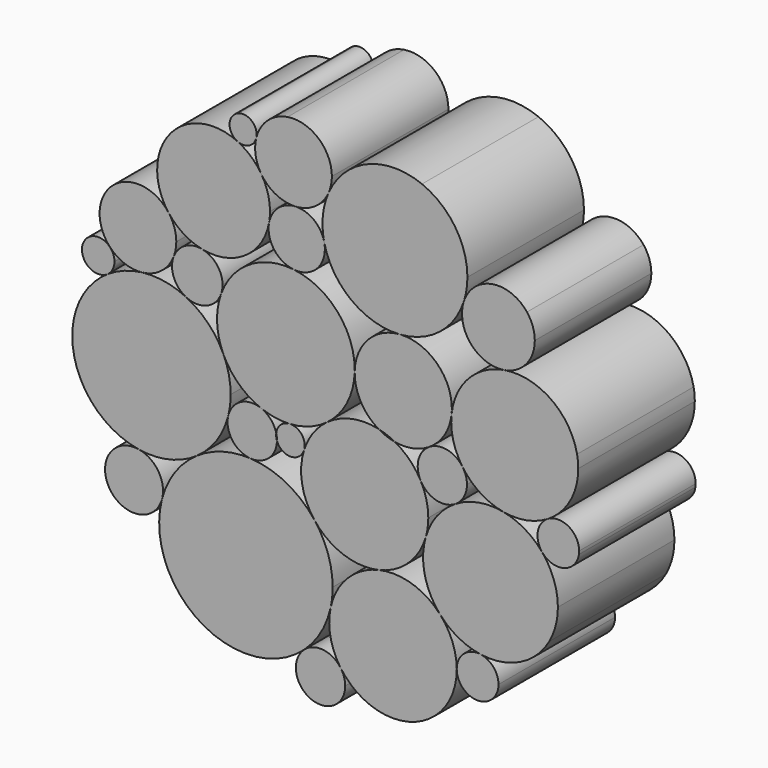
from build123d import *

# Parameters (mm, degrees)
F1_DEPTH = 25.4


with BuildPart() as f1:
    # F0 (on Front) → F1 (new body)
    with BuildSketch(Plane.XZ):
        with BuildLine():
            ThreePointArc((-15.6078290945, 37.3352174789), (-20.6051750596, 38.2182392899), (-25.3778206651, 36.4934065044))
            ThreePointArc((-25.3778206651, 36.4934065044), (-29.4767090603, 29.9644153461), (-27.6106538, 22.4846794291))
            ThreePointArc((-27.6106538, 22.4846794291), (-25.0052898724, 20.0914335063), (-21.7218328244, 18.7744456336))
            ThreePointArc((-21.7218328244, 18.7744456336), (-14.2601058431, 20.2581570952), (-10.0871613659, 26.6193915379))
            ThreePointArc((-10.0871613659, 26.6193915379), (-9.9632114803, 27.5137831674), (-9.9217785306, 28.4157716772))
            ThreePointArc((-9.9217785306, 28.4157716772), (-10.3158122315, 31.1722848745), (-11.4663520144, 33.7080068175))
            ThreePointArc((-11.4663520144, 33.7080068175), (-13.2782198976, 35.8171855219), (-15.6078290945, 37.3352174789))
        make_face()
    extrude(amount=F1_DEPTH)


with BuildPart() as f1b:
    # F0 (on Front) → F1, piece 2 (new body)
    with BuildSketch(Plane.XZ):
        with BuildLine():
            ThreePointArc((-12.2535706735, 39.4735210295), (-13.2646677338, 41.4093505446), (-15.4311115594, 41.6855286165))
            ThreePointArc((-15.4311115594, 41.6855286165), (-16.9690308561, 39.5692568276), (-15.6078290945, 37.3352174789))
            ThreePointArc((-15.6078290945, 37.3352174789), (-13.5934343406, 37.3462120742), (-12.322163476, 38.908830868))
            ThreePointArc((-12.322163476, 38.908830868), (-12.2707816668, 39.1891005876), (-12.2535706735, 39.4735210295))
        make_face()
    extrude(amount=F1_DEPTH)


with BuildPart() as f1c:
    # F0 (on Front) → F1, piece 3 (new body)
    with BuildSketch(Plane.XZ):
        with BuildLine():
            ThreePointArc((0.8649904966, 37.3069898746), (-1.4749867563, 42.3900449186), (-6.858211202, 43.9177349041))
            ThreePointArc((-6.858211202, 43.9177349041), (-10.3471940554, 42.2390620465), (-12.322163476, 38.908830868))
            ThreePointArc((-12.322163476, 38.908830868), (-12.427951259, 36.2205979471), (-11.4663520144, 33.7080068175))
            ThreePointArc((-11.4663520144, 33.7080068175), (-8.8987810267, 31.3635133718), (-5.5014016617, 30.6239974869))
            ThreePointArc((-5.5014016617, 30.6239974869), (-2.0351878592, 31.7935184516), (0.2978745743, 34.6111836364))
            ThreePointArc((0.2978745743, 34.6111836364), (0.7216766731, 35.9295836397), (0.8649904966, 37.3069898746))
        make_face()
    extrude(amount=F1_DEPTH)


with BuildPart() as f1d:
    # F0 (on Front) → F1, piece 4 (new body)
    with BuildSketch(Plane.XZ):
        with BuildLine():
            ThreePointArc((-0.4736150363, 26.7854721462), (-2.286297065, 29.6231970911), (-5.5014016617, 30.6239974869))
            ThreePointArc((-5.5014016617, 30.6239974869), (-8.4905795404, 29.4190402371), (-10.0871613659, 26.6193915379))
            ThreePointArc((-10.0871613659, 26.6193915379), (-9.2059944963, 22.8035333959), (-5.8127192722, 20.8483066403))
            ThreePointArc((-5.8127192722, 20.8483066403), (-1.9942532422, 22.0654090981), (-0.3573266278, 25.7236180143))
            ThreePointArc((-0.3573266278, 25.7236180143), (-0.3864853795, 26.2577194071), (-0.4736150363, 26.7854721462))
        make_face()
    extrude(amount=F1_DEPTH)


with BuildPart() as f1e:
    # F0 (on Front) → F1, piece 5 (new body)
    with BuildSketch(Plane.XZ):
        with BuildLine():
            ThreePointArc((24.4979513023, 29.5202209054), (22.3311025436, 36.5957656626), (16.5737357555, 41.2445606487))
            ThreePointArc((16.5737357555, 41.2445606487), (7.0935511907, 41.2212684492), (0.2978745743, 34.6111836364))
            ThreePointArc((0.2978745743, 34.6111836364), (-0.7121525846, 30.7598721164), (-0.4736150363, 26.7854721462))
            ThreePointArc((-0.4736150363, 26.7854721462), (4.2965647831, 19.4002182528), (12.7296984771, 16.9144896518))
            ThreePointArc((12.7296984771, 16.9144896518), (19.6261602551, 19.5512199164), (23.8717527716, 25.5917890723))
            ThreePointArc((23.8717527716, 25.5917890723), (24.3404196683, 27.5312072512), (24.4979513023, 29.5202209054))
        make_face()
    extrude(amount=F1_DEPTH)


with BuildPart() as f1f:
    # F0 (on Front) → F1, piece 6 (new body)
    with BuildSketch(Plane.XZ):
        with BuildLine():
            ThreePointArc((-0.0110876092, -0.7239575651), (3.5028976174, 3.4022382272), (4.8436805068, 8.6535128471))
            ThreePointArc((4.8436805068, 8.6535128471), (4.8459101884, 8.7870712457), (4.8466534463, 8.9206461869))
            ThreePointArc((4.8466534463, 8.9206461869), (1.7935065955, 16.9189477354), (-5.8127192722, 20.8483066403))
            ThreePointArc((-5.8127192722, 20.8483066403), (-13.5030273585, 19.108668519), (-18.4548382756, 12.9729739458))
            ThreePointArc((-18.4548382756, 12.9729739458), (-19.1478164527, 8.3895325083), (-18.052332905, 3.8853044988))
            ThreePointArc((-18.052332905, 3.8853044988), (-15.3610644036, 0.1594144685), (-11.4667828145, -2.2818461832))
            ThreePointArc((-11.4667828145, -2.2818461832), (-9.0240490533, -2.9362855976), (-6.4984160761, -3.0644153744))
            ThreePointArc((-6.4984160761, -3.0644153744), (-3.0830385406, -2.370144886), (-0.0110876092, -0.7239575651))
        make_face()
    extrude(amount=F1_DEPTH)


with BuildPart() as f1g:
    # F0 (on Front) → F1, piece 7 (new body)
    with BuildSketch(Plane.XZ):
        with BuildLine():
            ThreePointArc((-28.7412354041, -21.8214358914), (-28.0264607879, -31.6531526586), (-21.4055989822, -38.9564222204))
            ThreePointArc((-21.4055989822, -38.9564222204), (-12.3761115709, -40.7246915494), (-3.9925989958, -36.9332358614))
            ThreePointArc((-3.9925989958, -36.9332358614), (-1.0385273987, -33.2902195101), (0.6575166591, -28.9174010037))
            ThreePointArc((0.6575166591, -28.9174010037), (0.9168160913, -27.3181943183), (1.0035810477, -25.7004273201))
            ThreePointArc((1.0035810477, -25.7004273201), (0.1879182195, -20.8005250084), (-2.1710978914, -16.4290960084))
            ThreePointArc((-2.1710978914, -16.4290960084), (-7.0830968717, -12.3126313879), (-13.25877375, -10.5997303258))
            ThreePointArc((-13.25877375, -10.5997303258), (-18.2166095936, -11.1399345143), (-22.7292626143, -13.2631206892))
            ThreePointArc((-22.7292626143, -13.2631206892), (-26.4985248796, -17.0060987204), (-28.7412354041, -21.8214358914))
        make_face()
    extrude(amount=F1_DEPTH)


with BuildPart() as f1h:
    # F0 (on Front) → F1, piece 8 (new body)
    with BuildSketch(Plane.XZ):
        with BuildLine():
            ThreePointArc((16.3459321442, -4.366102374), (14.4318411741, -1.7954114217), (11.8624208029, 0.1203848019))
            ThreePointArc((11.8624208029, 0.1203848019), (10.3621751199, 0.5255187106), (8.9612037423, 1.1979395554))
            ThreePointArc((8.9612037423, 1.1979395554), (4.2669137226, 1.2087036208), (-0.0110876092, -0.7239575651))
            ThreePointArc((-0.0110876092, -0.7239575651), (-2.4397414493, -3.1977688071), (-3.9857059649, -6.3006860236))
            ThreePointArc((-3.9857059649, -6.3006860236), (-4.3244919112, -11.5881407608), (-2.1710978914, -16.4290960084))
            ThreePointArc((-2.1710978914, -16.4290960084), (2.8545450345, -20.0723982334), (9.0507481476, -20.4436190597))
            ThreePointArc((9.0507481476, -20.4436190597), (14.1967658064, -17.6986459182), (17.2377076876, -12.7217947282))
            ThreePointArc((17.2377076876, -12.7217947282), (17.5663936969, -11.1928352264), (17.6766871344, -9.6328393903))
            ThreePointArc((17.6766871344, -9.6328393903), (17.3388514559, -6.9167103597), (16.3459321442, -4.366102374))
        make_face()
    extrude(amount=F1_DEPTH)


with BuildPart() as f1i:
    # F0 (on Front) → F1, piece 9 (new body)
    with BuildSketch(Plane.XZ):
        with BuildLine():
            ThreePointArc((17.8320195948, 1.3031772886), (20.5051401552, 3.9955571252), (21.7346037229, 7.5848331039))
            ThreePointArc((21.7346037229, 7.5848331039), (21.768991827, 8.0243309005), (21.7804648896, 8.4650226565))
            ThreePointArc((21.7804648896, 8.4650226565), (19.0906402114, 14.6559407055), (12.7296984771, 16.9144896518))
            ThreePointArc((12.7296984771, 16.9144896518), (7.1848067582, 14.3131758644), (4.8436805068, 8.6535128471))
            ThreePointArc((4.8436805068, 8.6535128471), (5.897096886, 4.3704996321), (8.9612037423, 1.1979395554))
            ThreePointArc((8.9612037423, 1.1979395554), (10.4495946043, 0.7608876315), (11.8624208029, 0.1203848019))
            ThreePointArc((11.8624208029, 0.1203848019), (14.9571249212, 0.1570877196), (17.8320195948, 1.3031772886))
        make_face()
    extrude(amount=F1_DEPTH)


with BuildPart() as f1j:
    # F0 (on Front) → F1, piece 10 (new body)
    with BuildSketch(Plane.XZ):
        with BuildLine():
            ThreePointArc((-17.1906280732, -5.2565021615), (-16.4813381951, -8.8528221675), (-13.25877375, -10.5997303258))
            ThreePointArc((-13.25877375, -10.5997303258), (-10.0890087723, -9.4616809419), (-8.7079578843, -6.389993318))
            ThreePointArc((-8.7079578843, -6.389993318), (-8.837499811, -5.8306485341), (-8.8355526218, -5.2565022928))
            ThreePointArc((-8.8355526218, -5.2565022928), (-9.7877615477, -3.4477235382), (-11.4667828145, -2.2818461832))
            ThreePointArc((-11.4667828145, -2.2818461832), (-14.9987861074, -2.4798022056), (-17.1906280732, -5.2565021615))
        make_face()
    extrude(amount=F1_DEPTH)


with BuildPart() as f1k:
    # F0 (on Front) → F1, piece 11 (new body)
    with BuildSketch(Plane.XZ):
        with BuildLine():
            ThreePointArc((-3.8705366855, -5.5519682053), (-4.6491903112, -3.742709436), (-6.4984160761, -3.0644153744))
            ThreePointArc((-6.4984160761, -3.0644153744), (-8.0661609744, -3.73486883), (-8.8355526218, -5.2565022928))
            ThreePointArc((-8.8355526218, -5.2565022928), (-8.7392826856, -5.7746543939), (-8.7070316737, -6.3006861161))
            ThreePointArc((-8.7070316737, -6.3006861161), (-8.7072632325, -6.3453421184), (-8.7079578843, -6.389993318))
            ThreePointArc((-8.7079578843, -6.389993318), (-6.3147291095, -8.0428222917), (-3.9857059649, -6.3006860236))
            ThreePointArc((-3.9857059649, -6.3006860236), (-3.8994973351, -5.9307301142), (-3.8705366855, -5.5519682053))
        make_face()
    extrude(amount=F1_DEPTH)


with BuildPart() as f1l:
    # F0 (on Front) → F1, piece 12 (new body)
    with BuildSketch(Plane.XZ):
        with BuildLine():
            ThreePointArc((-44.3933614782, -2.2432023231), (-44.3637917289, -2.7670351351), (-44.3280410727, -3.2904824348))
            ThreePointArc((-44.3280410727, -3.2904824348), (-40.6482820427, -11.3678154247), (-32.8123367241, -15.5369754975))
            ThreePointArc((-32.8123367241, -15.5369754975), (-27.5500328762, -15.3790059084), (-22.7292626143, -13.2631206892))
            ThreePointArc((-22.7292626143, -13.2631206892), (-19.230971096, -9.7640844757), (-17.1906280732, -5.2565021615))
            ThreePointArc((-17.1906280732, -5.2565021615), (-16.8818914005, -3.5947937551), (-16.7784627444, -1.9078154879))
            ThreePointArc((-16.7784627444, -1.9078154879), (-17.1006896637, 1.0579468241), (-18.052332905, 3.8853044988))
            ThreePointArc((-18.052332905, 3.8853044988), (-20.7204147018, 7.7531200628), (-24.5309177447, 10.5024334811))
            ThreePointArc((-24.5309177447, 10.5024334811), (-28.2602664495, 11.7040836941), (-32.176999705, 11.8099402128))
            ThreePointArc((-32.176999705, 11.8099402128), (-35.3674252954, 11.0482066057), (-38.2882015398, 9.5555178684))
            ThreePointArc((-38.2882015398, 9.5555178684), (-42.8527708828, 4.4385254194), (-44.3933614782, -2.2432023231))
        make_face()
    extrude(amount=F1_DEPTH)


with BuildPart() as f1m:
    # F0 (on Front) → F1, piece 13 (new body)
    with BuildSketch(Plane.XZ):
        with BuildLine():
            ThreePointArc((-32.8123367241, -15.5369754975), (-37.819838089, -17.7036879366), (-37.9405544848, -23.1585151809))
            ThreePointArc((-37.9405544848, -23.1585151809), (-32.8994854172, -25.5269435897), (-28.7412354041, -21.8214358914))
            ThreePointArc((-28.7412354041, -21.8214358914), (-28.6146366316, -21.178824443), (-28.5721994973, -20.5252375609))
            ThreePointArc((-28.5721994973, -20.5252375609), (-29.7754639766, -17.251801976), (-32.8123367241, -15.5369754975))
        make_face()
    extrude(amount=F1_DEPTH)


with BuildPart() as f1n:
    # F0 (on Front) → F1, piece 14 (new body)
    with BuildSketch(Plane.XZ):
        with BuildLine():
            ThreePointArc((-18.196310712, 14.4595463734), (-19.1897604611, 17.2455678104), (-21.7218328244, 18.7744456336))
            ThreePointArc((-21.7218328244, 18.7744456336), (-24.7140177153, 18.3219241216), (-26.7074875082, 16.0450788646))
            ThreePointArc((-26.7074875082, 16.0450788646), (-26.6981596262, 12.8500550303), (-24.5309177447, 10.5024334811))
            ThreePointArc((-24.5309177447, 10.5024334811), (-20.941062757, 10.3805620765), (-18.4548382756, 12.9729739458))
            ThreePointArc((-18.4548382756, 12.9729739458), (-18.2614240341, 13.7051038502), (-18.196310712, 14.4595463734))
        make_face()
    extrude(amount=F1_DEPTH)


with BuildPart() as f1o:
    # F0 (on Front) → F1, piece 15 (new body)
    with BuildSketch(Plane.XZ):
        with BuildLine():
            ThreePointArc((-27.6106538, 22.4846794291), (-33.4025572508, 25.1252673155), (-38.7813319322, 21.7212060799))
            ThreePointArc((-38.7813319322, 21.7212060799), (-39.5834933491, 17.6311748754), (-37.807757349, 13.8604216548))
            ThreePointArc((-37.807757349, 13.8604216548), (-35.2348966798, 12.1692100477), (-32.176999705, 11.8099402128))
            ThreePointArc((-32.176999705, 11.8099402128), (-28.8521307594, 13.1654023964), (-26.7074875082, 16.0450788646))
            ThreePointArc((-26.7074875082, 16.0450788646), (-26.3719938915, 17.2284127665), (-26.2588873934, 18.4531747884))
            ThreePointArc((-26.2588873934, 18.4531747884), (-26.6058282566, 20.5792217121), (-27.6106538, 22.4846794291))
        make_face()
    extrude(amount=F1_DEPTH)


with BuildPart() as f1p:
    # F0 (on Front) → F1, piece 16 (new body)
    with BuildSketch(Plane.XZ):
        with BuildLine():
            ThreePointArc((-37.807757349, 13.8604216548), (-40.5269738734, 14.6725184826), (-42.5899973275, 12.7237819709))
            ThreePointArc((-42.5899973275, 12.7237819709), (-41.5537264564, 9.6262351043), (-38.2882015398, 9.5555178684))
            ThreePointArc((-38.2882015398, 9.5555178684), (-37.3661435928, 10.576617142), (-37.0326683052, 11.9113938338))
            ThreePointArc((-37.0326683052, 11.9113938338), (-37.2335499419, 12.9601398079), (-37.807757349, 13.8604216548))
        make_face()
    extrude(amount=F1_DEPTH)


with BuildPart() as f1q:
    # F0 (on Front) → F1, piece 17 (new body)
    with BuildSketch(Plane.XZ):
        with BuildLine():
            ThreePointArc((43.8239853812, 6.4338937256), (43.7719316736, 7.5063890376), (43.6162598815, 8.5688023639))
            ThreePointArc((43.6162598815, 8.5688023639), (39.0601152046, 15.5345622931), (30.9391939672, 17.3596387198))
            ThreePointArc((30.9391939672, 17.3596387198), (24.6866974204, 14.0261724843), (21.7346037229, 7.5848331039))
            ThreePointArc((21.7346037229, 7.5848331039), (22.0223484785, 3.6805843376), (23.6505176287, 0.1203848079))
            ThreePointArc((23.6505176287, 0.1203848079), (26.7242637725, -2.8584277317), (30.698032257, -4.4491519485))
            ThreePointArc((30.698032257, -4.4491519485), (34.7139571018, -4.4651240622), (38.4715366832, -3.0479073685))
            ThreePointArc((38.4715366832, -3.0479073685), (42.3934853824, 0.9897854641), (43.8239853812, 6.4338937256))
        make_face()
    extrude(amount=F1_DEPTH)


with BuildPart() as f1r:
    # F0 (on Front) → F1, piece 18 (new body)
    with BuildSketch(Plane.XZ):
        with BuildLine():
            ThreePointArc((36.2469925279, 23.619155047), (35.8958053912, 25.7007698793), (34.8811204209, 27.5519498073))
            ThreePointArc((34.8811204209, 27.5519498073), (28.78997659, 29.8657594282), (23.8717527716, 25.5917890723))
            ThreePointArc((23.8717527716, 25.5917890723), (25.0880603136, 19.4861753433), (30.9391939672, 17.3596387198))
            ThreePointArc((30.9391939672, 17.3596387198), (34.741411612, 19.515672678), (36.2469925279, 23.619155047))
        make_face()
    extrude(amount=F1_DEPTH)


with BuildPart() as f1s:
    # F0 (on Front) → F1, piece 19 (new body)
    with BuildSketch(Plane.XZ):
        with BuildLine():
            ThreePointArc((23.6505176287, 0.1203848079), (20.9787280461, 1.8799126306), (17.8320195948, 1.3031772886))
            ThreePointArc((17.8320195948, 1.3031772886), (15.9709838375, -1.2384034545), (16.3459321442, -4.366102374))
            ThreePointArc((16.3459321442, -4.366102374), (19.0098950772, -6.4728171489), (22.3709237985, -5.9845225796))
            ThreePointArc((22.3709237985, -5.9845225796), (23.8703151896, -4.4222788619), (24.4164277039, -2.3269170557))
            ThreePointArc((24.4164277039, -2.3269170557), (24.2204780893, -1.0447407169), (23.6505176287, 0.1203848079))
        make_face()
    extrude(amount=F1_DEPTH)


with BuildPart() as f1t:
    # F0 (on Front) → F1, piece 20 (new body)
    with BuildSketch(Plane.XZ):
        with BuildLine():
            ThreePointArc((26.8075120452, -27.6186676871), (33.702403892, -26.5405935143), (38.7696050296, -21.7421302049))
            ThreePointArc((38.7696050296, -21.7421302049), (39.8895150994, -18.965079231), (40.2710794677, -15.9951264858))
            ThreePointArc((40.2710794677, -15.9951264858), (39.5712901787, -12.0008392009), (37.5552814941, -8.4823530282))
            ThreePointArc((37.5552814941, -8.4823530282), (34.4784014039, -5.8677163747), (30.698032257, -4.4491519485))
            ThreePointArc((30.698032257, -4.4491519485), (26.3913567197, -4.4406164413), (22.3709237985, -5.9845225796))
            ThreePointArc((22.3709237985, -5.9845225796), (19.1760931095, -8.8745075808), (17.2377076876, -12.7217947282))
            ThreePointArc((17.2377076876, -12.7217947282), (17.0685968485, -18.6161142277), (19.7843775623, -23.8502460518))
            ThreePointArc((19.7843775623, -23.8502460518), (22.9666392364, -26.3481772832), (26.8075120452, -27.6186676871))
        make_face()
    extrude(amount=F1_DEPTH)


with BuildPart() as f1u:
    # F0 (on Front) → F1, piece 21 (new body)
    with BuildSketch(Plane.XZ):
        with BuildLine():
            ThreePointArc((2.4154429688, -37.659880028), (8.1976203441, -41.8890629425), (15.3592011477, -41.7120778684))
            ThreePointArc((15.3592011477, -41.7120778684), (20.635458614, -37.639853764), (22.633700044, -31.2814787204))
            ThreePointArc((22.633700044, -31.2814787204), (22.6336775965, -31.2591399814), (22.633610254, -31.2368013325))
            ThreePointArc((22.633610254, -31.2368013325), (21.8889341941, -27.2812487863), (19.7843775623, -23.8502460518))
            ThreePointArc((19.7843775623, -23.8502460518), (14.8809093981, -20.6870163114), (9.0507481476, -20.4436190597))
            ThreePointArc((9.0507481476, -20.4436190597), (3.6213384079, -23.4594347846), (0.6575166591, -28.9174010037))
            ThreePointArc((0.6575166591, -28.9174010037), (0.6213191065, -33.4726598404), (2.4154429688, -37.659880028))
        make_face()
    extrude(amount=F1_DEPTH)


with BuildPart() as f1v:
    # F0 (on Front) → F1, piece 22 (new body)
    with BuildSketch(Plane.XZ):
        with BuildLine():
            ThreePointArc((-3.9925989958, -36.9332358614), (-5.1489719739, -41.6184732114), (-1.228891184, -44.4330094238))
            ThreePointArc((-1.228891184, -44.4330094238), (1.8915636059, -43.2156530908), (3.194724613, -40.1300468413))
            ThreePointArc((3.194724613, -40.1300468413), (2.9952839706, -38.8349595888), (2.4154429688, -37.659880028))
            ThreePointArc((2.4154429688, -37.659880028), (-0.6248678343, -35.8528503551), (-3.9925989958, -36.9332358614))
        make_face()
    extrude(amount=F1_DEPTH)


with BuildPart() as f1w:
    # F0 (on Front) → F1, piece 23 (new body)
    with BuildSketch(Plane.XZ):
        with BuildLine():
            ThreePointArc((22.633610254, -31.2368013325), (24.7457213016, -34.5275635758), (28.6214493185, -34.0090449573))
            ThreePointArc((28.6214493185, -34.0090449573), (29.5783744914, -32.759132549), (29.9185262262, -31.2221603268))
            ThreePointArc((29.9185262262, -31.2221603268), (29.0331743538, -28.841846879), (26.8075120452, -27.6186676871))
            ThreePointArc((26.8075120452, -27.6186676871), (23.8902037194, -28.4698289417), (22.633610254, -31.2368013325))
        make_face()
    extrude(amount=F1_DEPTH)


with BuildPart() as f1x:
    # F0 (on Front) → F1, piece 24 (new body)
    with BuildSketch(Plane.XZ):
        with BuildLine():
            ThreePointArc((37.5552814941, -8.4823530282), (41.3222100162, -9.6598047087), (43.9410496924, -6.7072089522))
            ThreePointArc((43.9410496924, -6.7072089522), (43.9722385117, -6.4338511598), (43.9826546908, -6.1589171162))
            ThreePointArc((43.9826546908, -6.1589171162), (42.1352474039, -2.9946319147), (38.4715366832, -3.0479073685))
            ThreePointArc((38.4715366832, -3.0479073685), (36.7659509647, -5.5548070024), (37.5552814941, -8.4823530282))
        make_face()
    extrude(amount=F1_DEPTH)


solid = Compound([f1.part, f1b.part, f1c.part, f1d.part, f1e.part, f1f.part, f1g.part, f1h.part, f1i.part, f1j.part, f1k.part, f1l.part, f1m.part, f1n.part, f1o.part, f1p.part, f1q.part, f1r.part, f1s.part, f1t.part, f1u.part, f1v.part, f1w.part, f1x.part])
